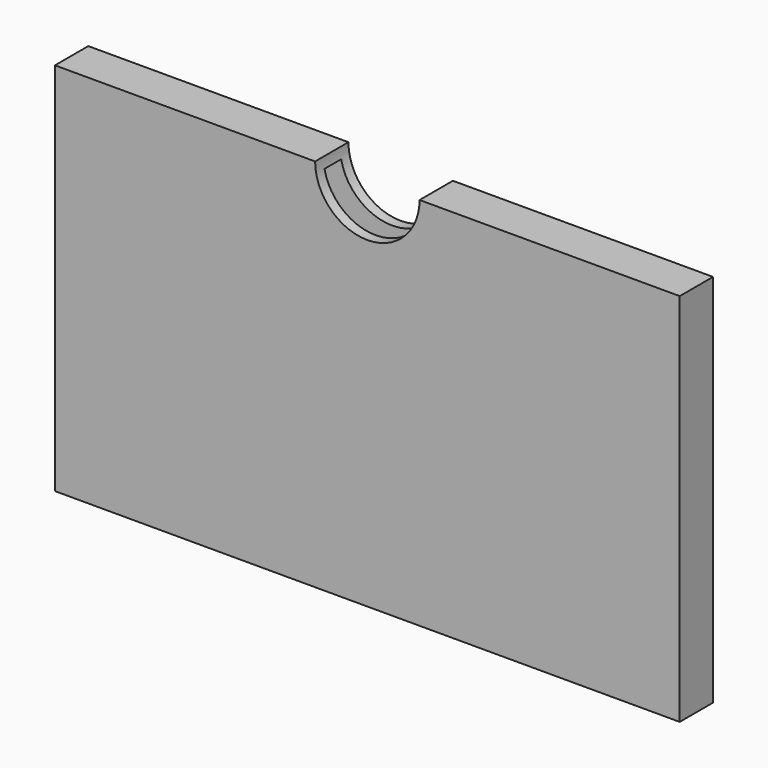
from build123d import *

# Parameters (mm, degrees)
F0_W     = 150
F0_H     = 10
F1_DEPTH = 90
F2_T     = -2.5
F3_R     = 12.538546
F4_DEPTH = 25


with BuildPart() as f1:
    # F0 (on Top) → F1 (new body)
    with BuildSketch(Plane.XY):
        Rectangle(F0_W, F0_H)
    extrude(amount=F1_DEPTH)

    # F2
    f2_openings = [f1.faces().sort_by_distance(p)[0] for p in [
        (0, 0, 0),
    ]]
    offset(amount=F2_T, openings=f2_openings)

    # F3 (on face) → F4 (cut)
    with BuildSketch(Plane.XZ.offset(5)):
        with Locations((0, 90)):
            Circle(F3_R)
    extrude(amount=-F4_DEPTH, mode=Mode.SUBTRACT)


solid = f1.part
